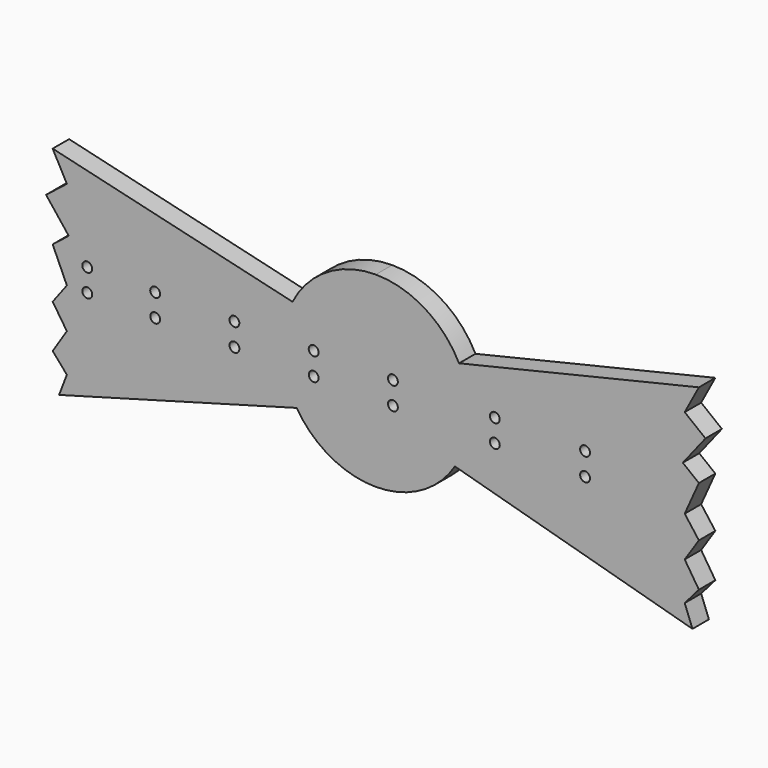
from build123d import *

# Parameters (mm, degrees)
F0_R     = 3.05
F1_DEPTH = 12.7


with BuildPart() as f1:
    # F0 (on Front) → F1 (new body)
    with BuildSketch(Plane.XZ):
        with BuildLine():
            ThreePointArc((51.488186, 26.23139), (30.193835, 49.269174), (0, 57.785112))
            ThreePointArc((0, 57.785112), (-30.193835, 49.269174), (-51.488186, 26.23139))
            Line((-51.488186, 26.23139), (-199.782062, 61.369492))
            Line((-199.782062, 61.369492), (-191.015825, 45.002539))
            Line((-191.015825, 45.002539), (-203.858078, 34.884386))
            Line((-203.858078, 34.884386), (-189.841708, 17.094403))
            Line((-189.841708, 17.094403), (-199.782062, 9.262597))
            Line((-199.782062, 9.262597), (-191.015825, -10.25812))
            Line((-191.015825, -10.25812), (-199.782062, -21.932906))
            Line((-199.782062, -21.932906), (-191.015825, -35.16433))
            Line((-191.015825, -35.16433), (-199.782062, -48.784915))
            Line((-199.782062, -48.784915), (-191.015825, -58.903065))
            Line((-191.015825, -58.903065), (-195.808372, -71.409119))
            Line((-195.808372, -71.409119), (-48.938758, -30.726488))
            ThreePointArc((-48.938758, -30.726488), (-27.960558, -50.570014), (0, -57.785112))
            ThreePointArc((0, -57.785112), (27.960558, -50.570014), (48.938758, -30.726488))
            Line((48.938758, -30.726488), (195.808372, -71.409119))
            Line((195.808372, -71.409119), (191.015825, -58.903065))
            Line((191.015825, -58.903065), (199.782062, -48.784915))
            Line((199.782062, -48.784915), (191.015825, -35.16433))
            Line((191.015825, -35.16433), (199.782062, -21.932906))
            Line((199.782062, -21.932906), (191.015825, -10.25812))
            Line((191.015825, -10.25812), (199.782062, 9.262597))
            Line((199.782062, 9.262597), (189.841708, 17.094403))
            Line((189.841708, 17.094403), (203.858078, 34.884386))
            Line((203.858078, 34.884386), (191.015825, 45.002539))
            Line((191.015825, 45.002539), (199.782062, 61.369492))
            Line((199.782062, 61.369492), (51.488186, 26.23139))
        make_face()
        with Locations((-178.394541, -10.163349)):
            Circle(F0_R, mode=Mode.SUBTRACT)
        with Locations((-136.394541, -10.163349)):
            Circle(F0_R, mode=Mode.SUBTRACT)
        with Locations((-87.394541, -10.163349)):
            Circle(F0_R, mode=Mode.SUBTRACT)
        with Locations((-38.394541, -10.163349)):
            Circle(F0_R, mode=Mode.SUBTRACT)
        with Locations((10.605459, -10.163349)):
            Circle(F0_R, mode=Mode.SUBTRACT)
        with Locations((73.605459, -10.163349)):
            Circle(F0_R, mode=Mode.SUBTRACT)
        with Locations((129.394541, -10.163349)):
            Circle(F0_R, mode=Mode.SUBTRACT)
        with Locations((-178.413816, 3.836376)):
            Circle(F0_R, mode=Mode.SUBTRACT)
        with Locations((-136.413816, 3.836376)):
            Circle(F0_R, mode=Mode.SUBTRACT)
        with Locations((-87.413816, 3.836376)):
            Circle(F0_R, mode=Mode.SUBTRACT)
        with Locations((-38.413816, 3.836376)):
            Circle(F0_R, mode=Mode.SUBTRACT)
        with Locations((10.586184, 3.836376)):
            Circle(F0_R, mode=Mode.SUBTRACT)
        with Locations((73.586184, 3.836376)):
            Circle(F0_R, mode=Mode.SUBTRACT)
        with Locations((129.375266, 3.836376)):
            Circle(F0_R, mode=Mode.SUBTRACT)
    extrude(amount=F1_DEPTH)


solid = f1.part
